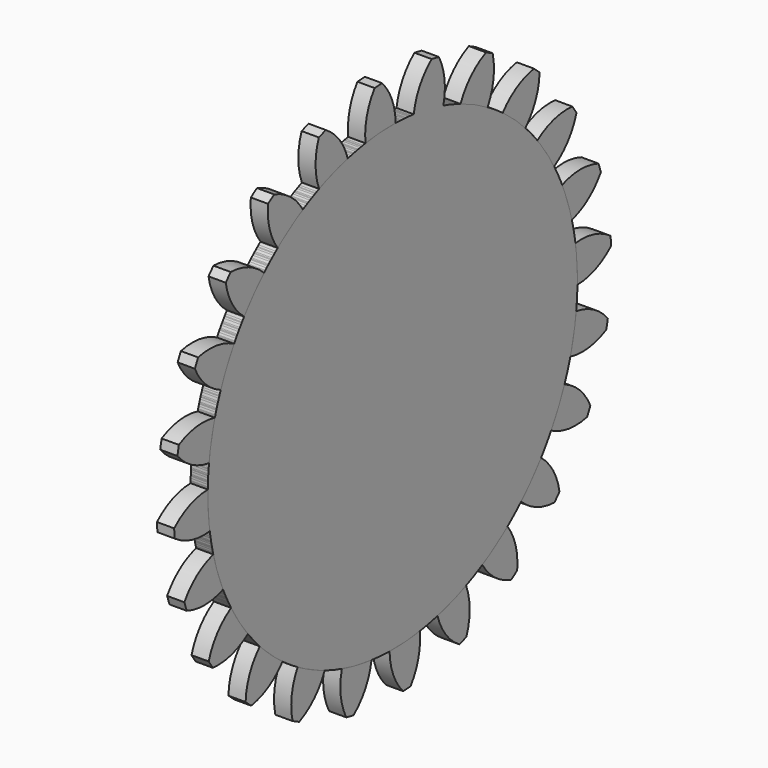
from build123d import *

# Parameters (mm, degrees)
F1_DEPTH = 1.6002
F2_COUNT = 24
F2_ANGLE = 345


with BuildPart() as f1:
    # F0 (on Right) → F1 (new body)
    with BuildSketch(Plane.YZ):
        with BuildLine():
            ThreePointArc((-3.149719, 21.23063), (-14.018879, -16.25212), (21.463, 0))
            ThreePointArc((21.463, 0), (15.300444, 15.051803), (0.351619, 21.46012))
            ThreePointArc((0.351619, 21.46012), (-1.403747, 21.417046), (-3.149719, 21.23063))
        make_face()
        with BuildLine():
            ThreePointArc((-3.149719, 21.23063), (-1.403747, 21.417046), (0.351619, 21.46012))
            ThreePointArc((0.351619, 21.46012), (-0.074968, 23.563046), (-1.232045, 25.370102))
            Line((-1.232045, 25.370102), (-2.089959, 25.313871))
            ThreePointArc((-2.089959, 25.313871), (-3.001268, 23.371246), (-3.149719, 21.23063))
        make_face()
    extrude(amount=F1_DEPTH)


with BuildPart() as f2_1:
    # F2: instance of F1
    add(f1.part.rotate(Axis((0, 0, 0), (1, 0, 0)), 1 * F2_ANGLE / (F2_COUNT - 1)))


with BuildPart() as f2_2:
    # F2: instance of F1
    add(f1.part.rotate(Axis((0, 0, 0), (1, 0, 0)), 2 * F2_ANGLE / (F2_COUNT - 1)))


with BuildPart() as f2_3:
    # F2: instance of F1
    add(f1.part.rotate(Axis((0, 0, 0), (1, 0, 0)), 3 * F2_ANGLE / (F2_COUNT - 1)))


with BuildPart() as f2_4:
    # F2: instance of F1
    add(f1.part.rotate(Axis((0, 0, 0), (1, 0, 0)), 4 * F2_ANGLE / (F2_COUNT - 1)))


with BuildPart() as f2_5:
    # F2: instance of F1
    add(f1.part.rotate(Axis((0, 0, 0), (1, 0, 0)), 5 * F2_ANGLE / (F2_COUNT - 1)))


with BuildPart() as f2_6:
    # F2: instance of F1
    add(f1.part.rotate(Axis((0, 0, 0), (1, 0, 0)), 6 * F2_ANGLE / (F2_COUNT - 1)))


with BuildPart() as f2_7:
    # F2: instance of F1
    add(f1.part.rotate(Axis((0, 0, 0), (1, 0, 0)), 7 * F2_ANGLE / (F2_COUNT - 1)))


with BuildPart() as f2_8:
    # F2: instance of F1
    add(f1.part.rotate(Axis((0, 0, 0), (1, 0, 0)), 8 * F2_ANGLE / (F2_COUNT - 1)))


with BuildPart() as f2_9:
    # F2: instance of F1
    add(f1.part.rotate(Axis((0, 0, 0), (1, 0, 0)), 9 * F2_ANGLE / (F2_COUNT - 1)))


with BuildPart() as f2_10:
    # F2: instance of F1
    add(f1.part.rotate(Axis((0, 0, 0), (1, 0, 0)), 10 * F2_ANGLE / (F2_COUNT - 1)))


with BuildPart() as f2_11:
    # F2: instance of F1
    add(f1.part.rotate(Axis((0, 0, 0), (1, 0, 0)), 11 * F2_ANGLE / (F2_COUNT - 1)))


with BuildPart() as f2_12:
    # F2: instance of F1
    add(f1.part.rotate(Axis((0, 0, 0), (1, 0, 0)), 12 * F2_ANGLE / (F2_COUNT - 1)))


with BuildPart() as f2_13:
    # F2: instance of F1
    add(f1.part.rotate(Axis((0, 0, 0), (1, 0, 0)), 13 * F2_ANGLE / (F2_COUNT - 1)))


with BuildPart() as f2_14:
    # F2: instance of F1
    add(f1.part.rotate(Axis((0, 0, 0), (1, 0, 0)), 14 * F2_ANGLE / (F2_COUNT - 1)))


with BuildPart() as f2_15:
    # F2: instance of F1
    add(f1.part.rotate(Axis((0, 0, 0), (1, 0, 0)), 15 * F2_ANGLE / (F2_COUNT - 1)))


with BuildPart() as f2_16:
    # F2: instance of F1
    add(f1.part.rotate(Axis((0, 0, 0), (1, 0, 0)), 16 * F2_ANGLE / (F2_COUNT - 1)))


with BuildPart() as f2_17:
    # F2: instance of F1
    add(f1.part.rotate(Axis((0, 0, 0), (1, 0, 0)), 17 * F2_ANGLE / (F2_COUNT - 1)))


with BuildPart() as f2_18:
    # F2: instance of F1
    add(f1.part.rotate(Axis((0, 0, 0), (1, 0, 0)), 18 * F2_ANGLE / (F2_COUNT - 1)))


with BuildPart() as f2_19:
    # F2: instance of F1
    add(f1.part.rotate(Axis((0, 0, 0), (1, 0, 0)), 19 * F2_ANGLE / (F2_COUNT - 1)))


with BuildPart() as f2_20:
    # F2: instance of F1
    add(f1.part.rotate(Axis((0, 0, 0), (1, 0, 0)), 20 * F2_ANGLE / (F2_COUNT - 1)))


with BuildPart() as f2_21:
    # F2: instance of F1
    add(f1.part.rotate(Axis((0, 0, 0), (1, 0, 0)), 21 * F2_ANGLE / (F2_COUNT - 1)))


with BuildPart() as f2_22:
    # F2: instance of F1
    add(f1.part.rotate(Axis((0, 0, 0), (1, 0, 0)), 22 * F2_ANGLE / (F2_COUNT - 1)))


with BuildPart() as f2_23:
    # F2: instance of F1
    add(f1.part.rotate(Axis((0, 0, 0), (1, 0, 0)), 23 * F2_ANGLE / (F2_COUNT - 1)))


solid = Compound([f1.part, f2_1.part, f2_2.part, f2_3.part, f2_4.part, f2_5.part, f2_6.part, f2_7.part, f2_8.part, f2_9.part, f2_10.part, f2_11.part, f2_12.part, f2_13.part, f2_14.part, f2_15.part, f2_16.part, f2_17.part, f2_18.part, f2_19.part, f2_20.part, f2_21.part, f2_22.part, f2_23.part])
